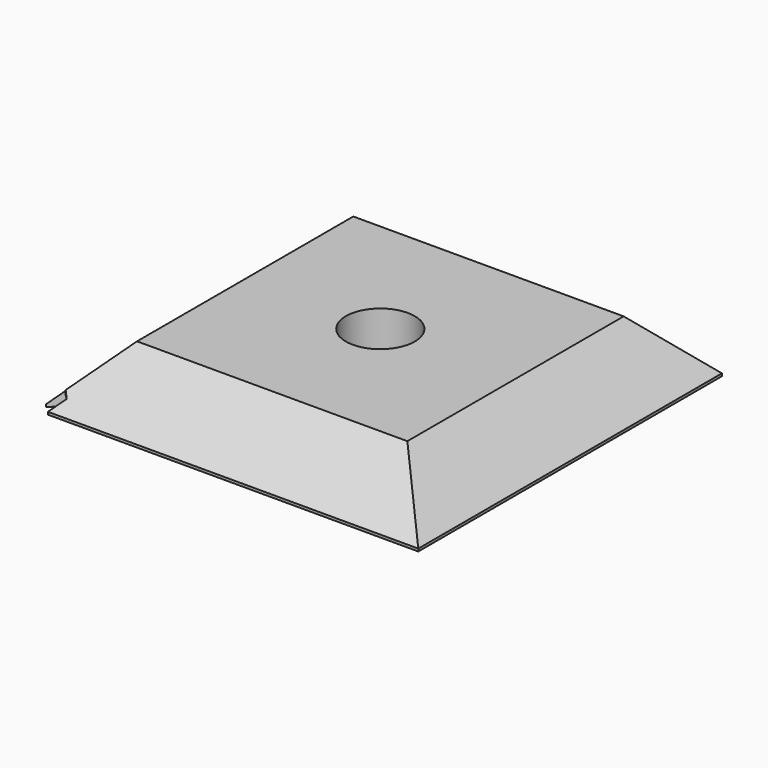
from build123d import *

# Parameters (mm, degrees)
SKETCH_W        = 146
SKETCH_H        = 146
PAD_DEPTH       = 22
CHAMFER_SIZE    = 21
SKETCH001_R     = 13.25
POCKET_DEPTH    = 22.001
SKETCH002_W     = 21
SKETCH002_H     = 66.25
SKETCH002_W_2   = 76
SKETCH002_H_2   = 21
POCKET001_DEPTH = 20
POCKET002_DEPTH = 5
POCKET003_DEPTH = 22.001
FILLET_R        = 1
FILLET001_R     = 0.7


with BuildPart() as part:
    # Sketch → Pad (new body)
    with BuildSketch(Plane.XY):
        Rectangle(SKETCH_W, SKETCH_H)
    extrude(amount=PAD_DEPTH)

    # Chamfer
    chamfer_edges = [part.edges().sort_by_distance(p)[0] for p in [
        (73, 0, 22),
        (0, -73, 22),
        (-73, 0, 22),
        (0, 73, 22),
    ]]
    chamfer(chamfer_edges, length=CHAMFER_SIZE)

    # Sketch001 (on Face6 of Pad) → Pocket (cut, through all)
    with BuildSketch(Plane.XY.offset(22)):
        Circle(SKETCH001_R)
    extrude(amount=-POCKET_DEPTH, mode=Mode.SUBTRACT)

    # Sketch002 (on Face4 of Pocket) → Pocket001 (cut)
    with BuildSketch(Plane(origin=(0, 0, 0), x_dir=(1, 0, 0), z_dir=(0, 0, -1))):
        with Locations((33.5, 19.875)):
            Rectangle(SKETCH002_W, SKETCH002_H)
        with Locations((-15, 42.5)):
            Rectangle(SKETCH002_W_2, SKETCH002_H_2)
    extrude(amount=-POCKET001_DEPTH, mode=Mode.SUBTRACT)

    # Sketch003 (on Face4 of Pocket001) → Pocket002 (cut)
    with BuildSketch(Plane(origin=(0, 0, 0), x_dir=(1, 0, 0), z_dir=(0, 0, -1))):
        with BuildLine():
            Line((26, -13.25), (30, -13.25))
            ThreePointArc((-2, -13.098187), (13.924093, -29.174093), (30, -13.25))
            Line((2, -13.098187), (-2, -13.098187))
            ThreePointArc((2, -13.098187), (13.968558, -18.144656), (26, -13.25))
        make_face()
        Polygon((-49.464466, 53), (-71.232233, 74.767767), (-74.767767, 71.232233), (-53, 49.464466), align=None)
    extrude(amount=-POCKET002_DEPTH, mode=Mode.SUBTRACT)

    # Sketch004 (on Face3 of Pocket002) → Pocket003 (cut, through all)
    with BuildSketch(Plane(origin=(0, 0, 0), x_dir=(1, 0, 0), z_dir=(0, 0, -1))):
        Polygon((-69, 65.464466), (-65.464466, 69), (-69.464466, 73), (-73, 69.464466), align=None)
    extrude(amount=-POCKET003_DEPTH, mode=Mode.SUBTRACT)

    # Fillet
    fillet_edges = [part.edges().sort_by_distance(p)[0] for p in [
        (-53, -32, 10),
        (23, -32, 10),
        (23, 13.25, 10),
        (44, -53, 10),
        (44, 13.25, 10),
        (-53, -53, 12.5),
    ]]
    fillet(fillet_edges, radius=FILLET_R)

    # Fillet001
    fillet001_edges = [part.edges().sort_by_distance(p)[0] for p in [
        (2, 13.098187, 2.5),
        (30, 13.25, 2.5),
        (26, 13.25, 2.5),
        (-2, 13.098187, 2.5),
    ]]
    fillet(fillet001_edges, radius=FILLET001_R)


solid = part.part
